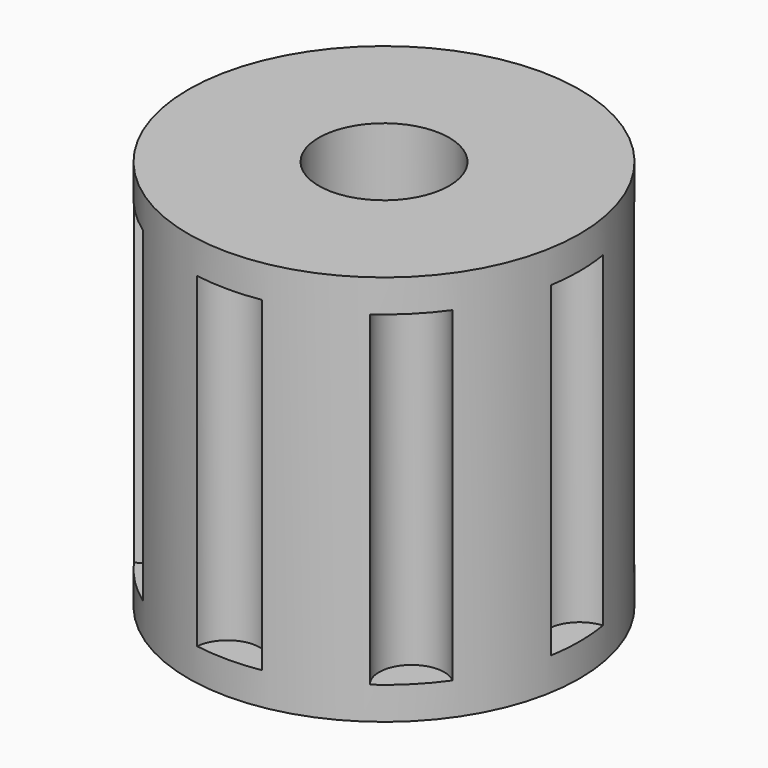
from build123d import *

# Parameters (mm, degrees)
SKETCH015_R     = 7.62
PAD005_DEPTH    = 15.24
POCKET010_DEPTH = 12.7
SKETCH017_R     = 2.54
POCKET011_DEPTH = 15.241


with BuildPart() as part:
    # Sketch015 → Pad005 (new body)
    with BuildSketch(Plane.XY):
        Circle(SKETCH015_R)
    extrude(amount=PAD005_DEPTH)

    # Sketch016 (on DatumPlane) → Pocket010 (cut)
    with BuildSketch(Plane.XY.offset(13.97)):
        with BuildLine():
            ThreePointArc((-1.265583, 7.514167), (0, 6.35), (1.265583, 7.514167))
            ThreePointArc((1.265583, 7.514167), (0, 7.62), (-1.265583, 7.514167))
        make_face()
        with BuildLine():
            ThreePointArc((7.514167, 1.265583), (6.35, 0), (7.514167, -1.265583))
            ThreePointArc((7.514167, -1.265583), (7.62, 0), (7.514167, 1.265583))
        make_face()
        with BuildLine():
            ThreePointArc((1.265583, -7.514167), (0, -6.35), (-1.265583, -7.514167))
            ThreePointArc((-1.265583, -7.514167), (0, -7.62), (1.265583, -7.514167))
        make_face()
        with BuildLine():
            ThreePointArc((-7.514167, -1.265583), (-6.35, 0), (-7.514167, 1.265583))
            ThreePointArc((-7.514167, 1.265583), (-7.62, 0), (-7.514167, -1.265583))
        make_face()
        with BuildLine():
            ThreePointArc((-6.20822, 4.418416), (-4.490128, 4.490128), (-4.418416, 6.20822))
            ThreePointArc((-4.418416, 6.20822), (-5.388154, 5.388154), (-6.20822, 4.418416))
        make_face()
        with BuildLine():
            ThreePointArc((4.418416, 6.20822), (4.490128, 4.490128), (6.20822, 4.418416))
            ThreePointArc((6.20822, 4.418416), (5.388154, 5.388154), (4.418416, 6.20822))
        make_face()
        with BuildLine():
            ThreePointArc((6.20822, -4.418416), (4.490128, -4.490128), (4.418416, -6.20822))
            ThreePointArc((4.418416, -6.20822), (5.388154, -5.388154), (6.20822, -4.418416))
        make_face()
        with BuildLine():
            ThreePointArc((-4.418416, -6.20822), (-4.490128, -4.490128), (-6.20822, -4.418416))
            ThreePointArc((-6.20822, -4.418416), (-5.388154, -5.388154), (-4.418416, -6.20822))
        make_face()
    extrude(amount=-POCKET010_DEPTH, mode=Mode.SUBTRACT)

    # Sketch017 (on Face6 of Pocket010) → Pocket011 (cut, through all)
    with BuildSketch(Plane.XY.offset(15.24)):
        Circle(SKETCH017_R)
    extrude(amount=-POCKET011_DEPTH, mode=Mode.SUBTRACT)


solid = part.part
